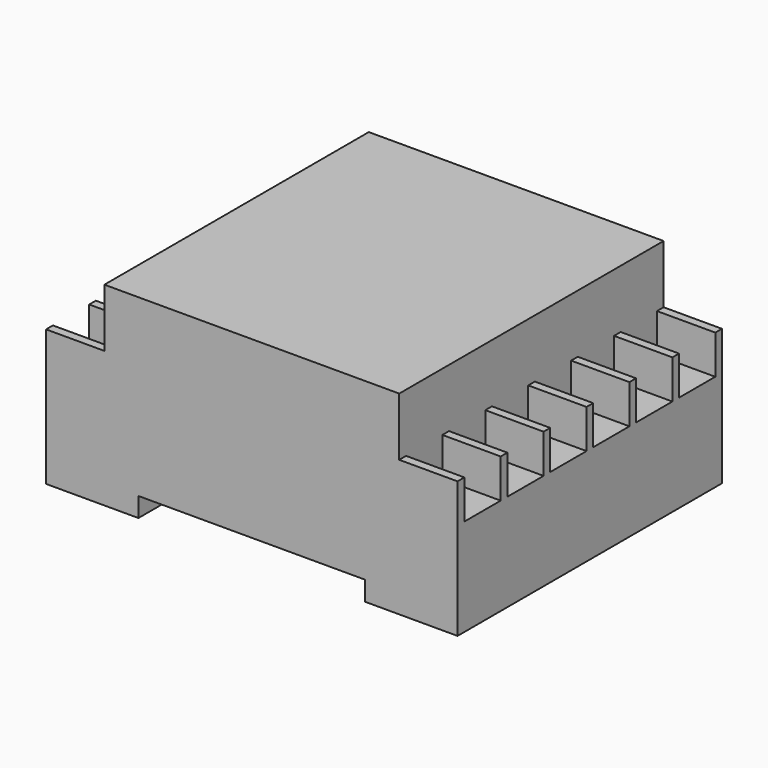
from build123d import *

# Parameters (mm, degrees)
F1_DEPTH = 51
F2_W     = 9
F2_H     = 7
F3_DEPTH = 6


with BuildPart() as f1:
    # F0 (on Front) → F1 (new body)
    with BuildSketch(Plane.XZ):
        Polygon((0, 21), (0, 0), (14.25, 0), (14.25, 3), (49.25, 3), (49.25, 0), (63.5, 0), (63.5, 21), (54.5, 21), (54.5, 30), (9, 30), (9, 21), align=None)
    extrude(amount=F1_DEPTH)

    # F2 (on face) → F3 (cut)
    with BuildSketch(Plane.XY.offset(21)):
        with Locations((59, -4.78)):
            Rectangle(F2_W, F2_H)
        with Locations((59, -13.06)):
            Rectangle(F2_W, F2_H)
        with Locations((59, -21.34)):
            Rectangle(F2_W, F2_H)
        with Locations((59, -29.62)):
            Rectangle(F2_W, F2_H)
        with Locations((59, -37.9)):
            Rectangle(F2_W, F2_H)
        with Locations((59, -46.18)):
            Rectangle(F2_W, F2_H)
        with Locations((4.5, -4.78)):
            Rectangle(F2_W, F2_H)
        with Locations((4.5, -13.06)):
            Rectangle(F2_W, F2_H)
        with Locations((4.5, -21.34)):
            Rectangle(F2_W, F2_H)
        with Locations((4.5, -29.62)):
            Rectangle(F2_W, F2_H)
        with Locations((4.5, -37.9)):
            Rectangle(F2_W, F2_H)
        with Locations((4.5, -46.18)):
            Rectangle(F2_W, F2_H)
    extrude(amount=-F3_DEPTH, mode=Mode.SUBTRACT)


solid = f1.part
